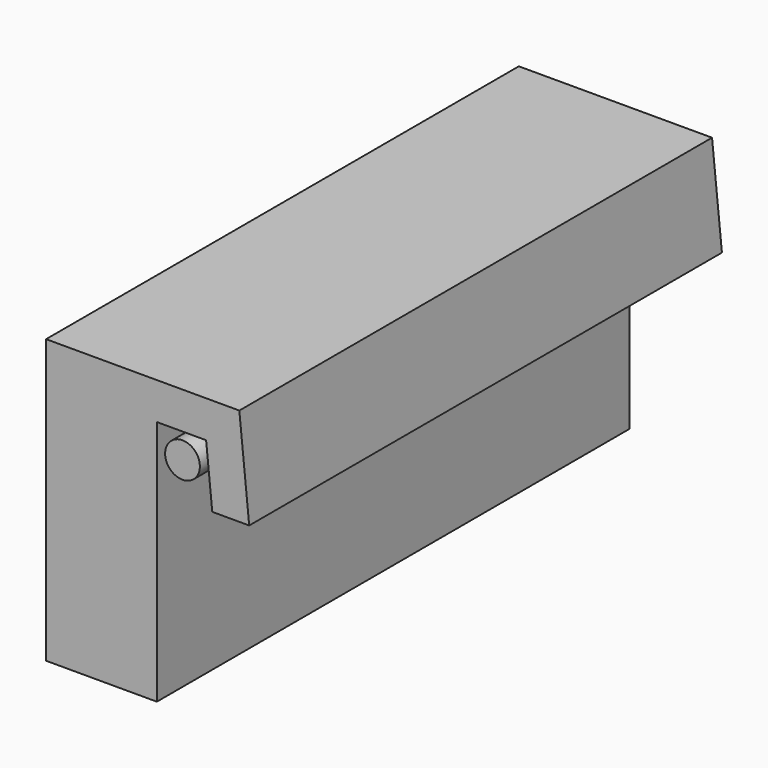
from build123d import *

# Parameters (mm, degrees)
F0_W     = 44.45
F0_H     = 127
F0_W_2   = 12.7
F0_R     = 8.9662
F1_DEPTH = 304.8


with BuildPart() as f1:
    # F0 (on Front) → F1 (new body)
    with BuildSketch(Plane.XZ):
        with Locations((-22.225, -63.5)):
            Rectangle(F0_W, F0_H)
        Polygon((36.180928, 19.05), (38.1, 0), (41.272682, -31.494179), (60.322682, -31.494179), (55.230928, 19.05), align=None)
        Polygon((-44.45, 0), (0, 0), (12.7, 0), (38.1, 0), (36.180928, 19.05), (-44.45, 19.05), align=None)
        with Locations((6.35, -63.5)):
            Rectangle(F0_W_2, F0_H)
        with Locations((25.907997, -12.938708)):
            Circle(F0_R)
    extrude(amount=F1_DEPTH)


solid = f1.part
